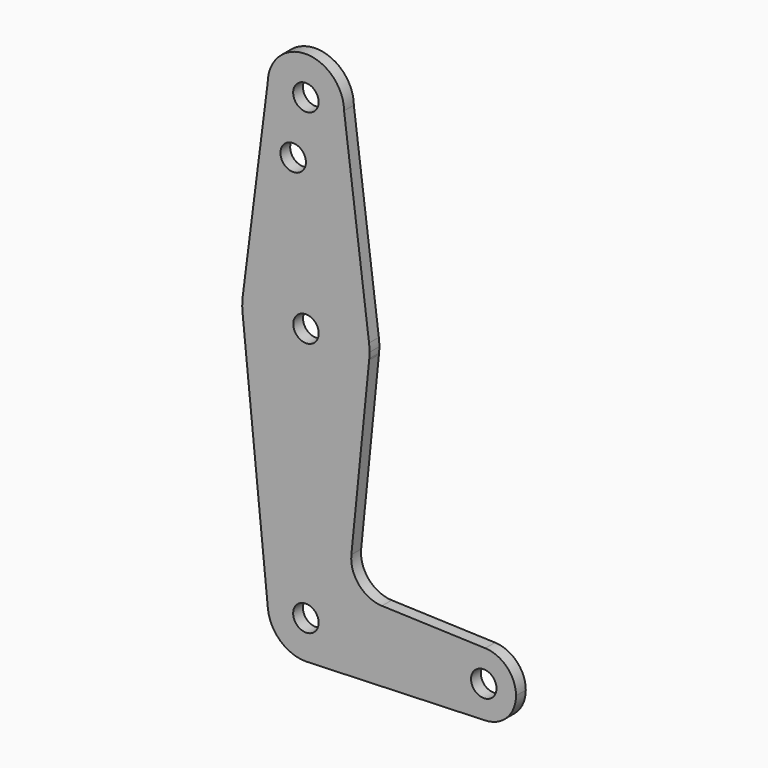
from build123d import *

# Parameters (mm, degrees)
F0_R     = 3.175
F1_DEPTH = 3.048


with BuildPart() as f1:
    # F0 (on Front) → F1 (new body)
    with BuildSketch(Plane.XZ):
        with BuildLine():
            ThreePointArc((-9.523987, 114.438923), (-0.069463, 104.775253), (9.525, 114.3))
            ThreePointArc((9.525, 114.3), (9.524747, 114.369463), (9.523987, 114.438923))
            ThreePointArc((9.523987, 114.438923), (0, 123.825), (-9.523987, 114.438923))
        make_face()
        with Locations((0, 114.3)):
            Circle(F0_R, mode=Mode.SUBTRACT)
        with BuildLine():
            ThreePointArc((9.523987, 114.438923), (9.524747, 114.369463), (9.525, 114.3))
            ThreePointArc((9.525, 114.3), (-0.069463, 104.775253), (-9.523987, 114.438923))
            Line((-9.523987, 114.438923), (-15.748131, 65.502999))
            ThreePointArc((-15.748131, 65.502999), (0, 79.375), (15.748131, 65.502999))
            Line((15.748131, 65.502999), (9.523987, 114.438923))
        make_face()
        with Locations((-3.175, 100.047819)):
            Circle(F0_R, mode=Mode.SUBTRACT)
        with BuildLine():
            ThreePointArc((15.875, 63.5), (15.843251, 64.503507), (15.748131, 65.502999))
            ThreePointArc((15.748131, 65.502999), (0, 79.375), (-15.748131, 65.502999))
            ThreePointArc((-15.748131, 65.502999), (-15.872386, 63.788051), (-15.810438, 62.069724))
            Line((-15.810438, 62.069724), (-15.778893, 61.755825))
            ThreePointArc((-15.778893, 61.755825), (0, 47.625), (15.778893, 61.755825))
            Line((15.778893, 61.755825), (15.810438, 62.069724))
            ThreePointArc((15.810438, 62.069724), (15.858851, 62.784134), (15.875, 63.5))
        make_face()
        with Locations((0.023136, 63.522619)):
            Circle(F0_R, mode=Mode.SUBTRACT)
        with BuildLine():
            ThreePointArc((15.778893, 61.755825), (0, 47.625), (-15.778893, 61.755825))
            Line((-15.778893, 61.755825), (-9.477267, -0.952382))
            ThreePointArc((-9.477267, -0.952382), (-0.476789, 9.513059), (9.525, 0))
            ThreePointArc((9.525, 0), (6.970557, -6.491299), (0.677344, -9.500886))
            Line((0.677344, -9.500886), (44.732405, -7.932475))
            ThreePointArc((44.732405, -7.932475), (36.5125, 0), (44.732405, 7.932475))
            Line((44.732405, 7.932475), (18.968096, 8.849714))
            ThreePointArc((18.968096, 8.849714), (13.261005, 11.567434), (11.340595, 17.589802))
            Line((11.340595, 17.589802), (15.778893, 61.755825))
        make_face()
        with BuildLine():
            ThreePointArc((9.525, 0), (-0.476789, 9.513059), (-9.477267, -0.952382))
            ThreePointArc((-9.477267, -0.952382), (-6.389608, -7.063889), (0, -9.525))
            Line((0, -9.525), (0.677344, -9.500886))
            ThreePointArc((0.677344, -9.500886), (6.970557, -6.491299), (9.525, 0))
        make_face()
        Circle(F0_R, mode=Mode.SUBTRACT)
        with BuildLine():
            ThreePointArc((52.3875, 0), (50.161633, 5.51191), (44.732405, 7.932475))
            ThreePointArc((44.732405, 7.932475), (36.5125, 0), (44.732405, -7.932475))
            ThreePointArc((44.732405, -7.932475), (50.161633, -5.51191), (52.3875, 0))
        make_face()
        with Locations((44.353276, 0.014882)):
            Circle(F0_R, mode=Mode.SUBTRACT)
    extrude(amount=F1_DEPTH)


solid = f1.part
